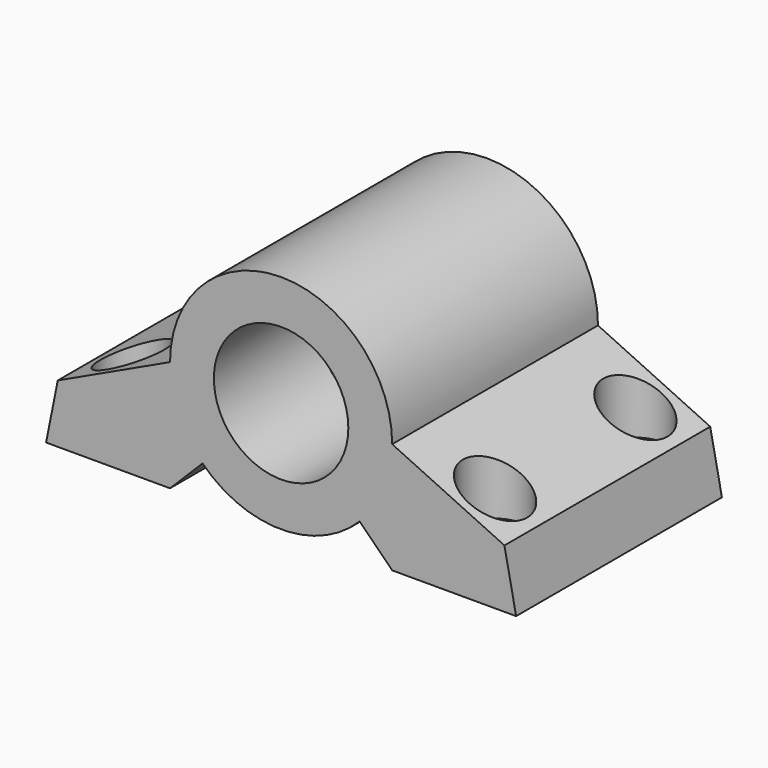
from build123d import *

# Parameters (mm, degrees)
PAD001_DEPTH    = 22
SKETCH005_R     = 1.65
POCKET003_DEPTH = 24.001
SKETCH006_R     = 2.75
POCKET004_DEPTH = 16.001
SKETCH007_R     = 3.25
POCKET005_DEPTH = 61.001
SKETCH008_R     = 5.75
POCKET006_DEPTH = 11


with BuildPart() as part:
    # Sketch004 → Pad001 (new body)
    with BuildSketch(Plane.XZ.offset(11)):
        with BuildLine():
            Line((-20.1, 5), (-19.1, 10))
            Line((-9.5, 14.5), (-19.1, 10))
            ThreePointArc((9.5, 14.5), (0, 24), (-9.5, 14.5))
            Line((9.5, 14.5), (19.1, 10))
            Line((20.1, 5), (19.1, 10))
            Line((9.5, 5), (20.1, 5))
            Line((9.5, 5), (6.717514, 7.782486))
            ThreePointArc((-6.717514, 7.782486), (0, 5), (6.717514, 7.782486))
            Line((-9.5, 5), (-6.717514, 7.782486))
            Line((-20.1, 5), (-9.5, 5))
        make_face()
    extrude(amount=-PAD001_DEPTH)

    # Sketch005 → Pocket003 (cut, through all)
    with BuildSketch(Plane.XY):
        with Locations((-15.5, 7.5)):
            Circle(SKETCH005_R)
        with Locations((15.5, 7.5)):
            Circle(SKETCH005_R)
        with Locations((15.5, -7.5)):
            Circle(SKETCH005_R)
        with Locations((-15.5, -7.5)):
            Circle(SKETCH005_R)
    extrude(amount=POCKET003_DEPTH, mode=Mode.SUBTRACT)

    # Sketch006 → Pocket004 (cut, through all)
    with BuildSketch(Plane.XY.offset(8)):
        with Locations((-15.5, 7.5)):
            Circle(SKETCH006_R)
        with Locations((-15.5, -7.5)):
            Circle(SKETCH006_R)
        with Locations((15.5, 7.5)):
            Circle(SKETCH006_R)
        with Locations((15.5, -7.5)):
            Circle(SKETCH006_R)
    extrude(amount=POCKET004_DEPTH, mode=Mode.SUBTRACT)

    # Sketch007 → Pocket005 (cut, through all)
    with BuildSketch(Plane.XZ.offset(50)):
        with Locations((0, 14.5)):
            Circle(SKETCH007_R)
    extrude(amount=-POCKET005_DEPTH, mode=Mode.SUBTRACT)

    # Sketch008 → Pocket006 (cut)
    with BuildSketch(Plane.XZ.offset(11)):
        with Locations((0, 14.5)):
            Circle(SKETCH008_R)
    extrude(amount=-POCKET006_DEPTH, mode=Mode.SUBTRACT)


solid = part.part
